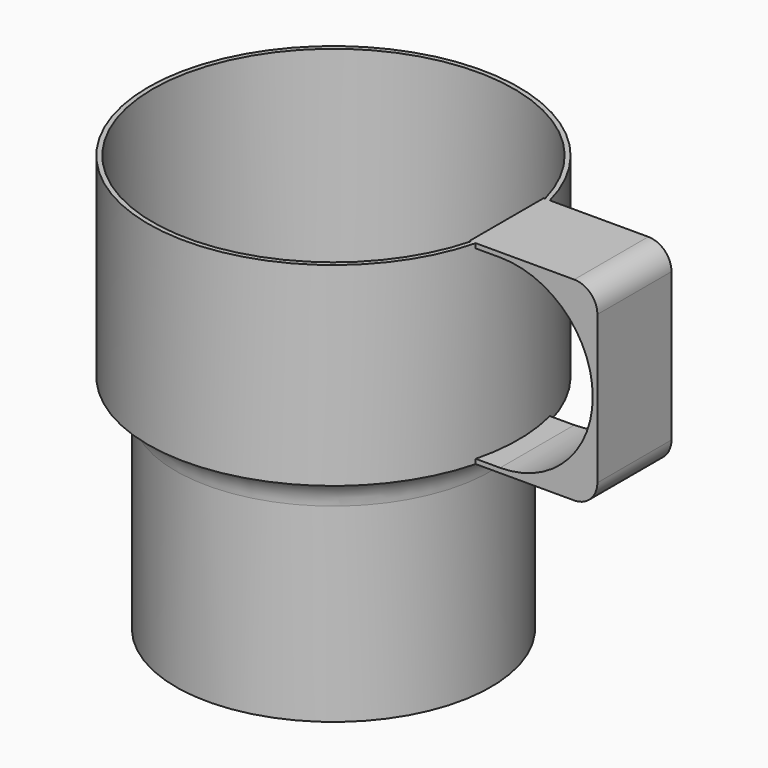
from build123d import *

# Parameters (mm, degrees)
F2_T     = -1
F4_DEPTH = 10


with BuildPart() as f1:
    # F0 (on Front) → F1 (revolve)
    with BuildSketch(Plane.XZ):
        with BuildLine():
            Line((-34, 0), (0, 0))
            Line((0, 0), (0, 90))
            Line((0, 90), (-40, 90))
            Line((-40, 90), (-40, 48))
            ThreePointArc((-40, 48), (-35.706514, 45.627105), (-34, 41.027925))
            Line((-34, 41.027925), (-34, 0))
        make_face()
    revolve(axis=Axis((0, 0, 45), (0, 0, 1)))

    # F2
    f2_openings = [f1.faces().sort_by_distance(p)[0] for p in [
        (0, 0, 90),
    ]]
    offset(amount=F2_T, openings=f2_openings)

    # F3 (on Front) → F4 (join, symmetric)
    with BuildSketch(Plane.XZ):
        with BuildLine():
            Line((60, 90), (37.403014, 90))
            Line((37.403014, 90), (37.403014, 89))
            Line((37.403014, 89), (44, 89))
            ThreePointArc((44, 89), (58.142136, 83.142136), (64, 69))
            ThreePointArc((64, 69), (58.142136, 54.857864), (44, 49))
            Line((44, 49), (34.291856, 49))
            Line((34.291856, 49), (34.291856, 48))
            Line((34.291856, 48), (60, 48))
            ThreePointArc((60, 48), (63.535534, 49.464466), (65, 53))
            Line((65, 53), (65, 85))
            ThreePointArc((65, 85), (63.535534, 88.535534), (60, 90))
        make_face()
    extrude(amount=F4_DEPTH, both=True)


solid = f1.part
